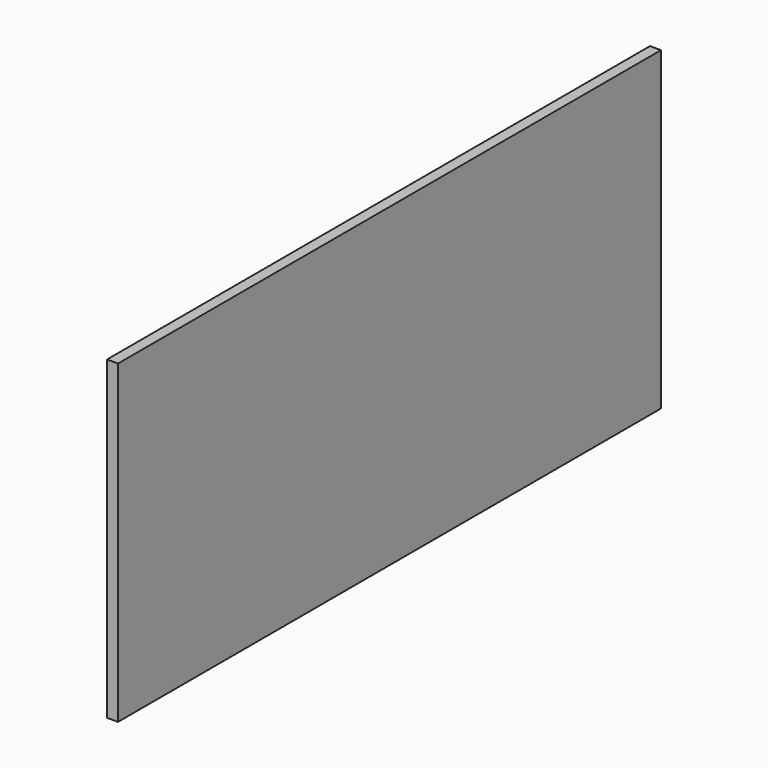
from build123d import *

# Parameters (mm, degrees)
SKETCH_W  = 185
SKETCH_H  = 86
PAD_DEPTH = 3


with BuildPart() as part:
    # Sketch → Pad (new body)
    with BuildSketch(Plane.YZ):
        Rectangle(SKETCH_W, SKETCH_H)
    extrude(amount=PAD_DEPTH)


solid = part.part
